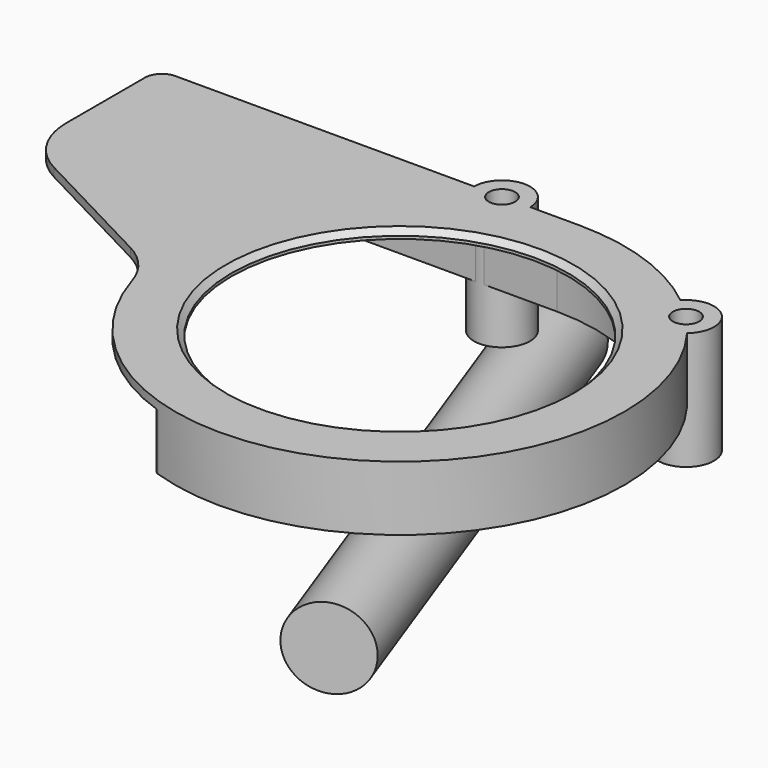
from build123d import *

# Parameters (mm, degrees)
SKETCH_R                 = 60
PAD_DEPTH                = 23
POCKET_DEPTH             = 20
SKETCH002_R              = 10
PAD001_DEPTH             = 42
SKETCH005_R              = 2.8
POCKET001_DEPTH          = 42.001
SKETCH006_R              = 4.7
POCKET002_DEPTH          = 6
FILLET_R                 = 26
CHAMFER_SIZE             = 2
FILLET001_R              = 6
FILLET002_R              = 3
CYLINDER_R               = 14.3
CYLINDER_DEPTH           = 200
CYLINDER_ROLL_ANGLE      = 90
CYLINDER_PITCH_ANGLE     = 19.983107
CYLINDER_PLACEMENT_ANGLE = 19.983107


with BuildPart() as body:
    # Sketch → Pad (new body)
    with BuildSketch(Plane.XY):
        with BuildLine():
            ThreePointArc((-78.765475, -14), (61.318839, -51.38093), (0, 80))
            Line((-150, 80), (0, 80))
            Line((-150, 80), (-150, 23.233627))
            Line((-150, 23.233627), (-78.765475, -14))
        make_face()
        Circle(SKETCH_R, mode=Mode.SUBTRACT)
    extrude(amount=PAD_DEPTH)

    # Sketch001 (on Face6 of Pad) → Pocket (cut)
    with BuildSketch(Plane(origin=(0, 0, 0), x_dir=(1, 0, 0), z_dir=(0, 0, -1))):
        with BuildLine():
            Line((-178.35, 70), (0, 70))
            ThreePointArc((0, -70), (70, 0), (0, 70))
            Line((-178.35, -70), (0, -70))
            Line((-178.35, 70), (-178.35, -70))
        make_face()
    extrude(amount=-POCKET_DEPTH, mode=Mode.SUBTRACT)

    # Sketch002 (on Face6 of Pocket) → Pad001 (join)
    with BuildSketch(Plane.XY.offset(23)):
        with Locations((57.547184, 55.57267)):
            Circle(SKETCH002_R)
        with Locations((-27.510509, 79.89632)):
            Circle(SKETCH002_R)
    extrude(amount=-PAD001_DEPTH)

    # Sketch005 (on Face5 of Pad001) → Pocket001 (cut, through all)
    with BuildSketch(Plane.XY.offset(23)):
        with Locations((-27.510509, 79.89632)):
            Circle(SKETCH005_R)
        with Locations((57.547184, 55.57267)):
            Circle(SKETCH005_R)
    extrude(amount=-POCKET001_DEPTH, mode=Mode.SUBTRACT)

    # Sketch006 (on Face15 of Pocket001) → Pocket002 (cut)
    with BuildSketch(Plane.XY.offset(23)):
        with Locations((-27.510509, 79.89632)):
            Circle(SKETCH006_R)
        with Locations((57.547184, 55.57267)):
            Circle(SKETCH006_R)
    extrude(amount=-POCKET002_DEPTH, mode=Mode.SUBTRACT)

    # Fillet
    fillet_edges = [body.edges().sort_by_distance(p)[0] for p in [
        (-150, 23.233627, 21.5),
        (-78.765475, -14, 21.5),
    ]]
    fillet(fillet_edges, radius=FILLET_R)

    # Chamfer
    chamfer_edges = [body.edges().sort_by_distance(p)[0] for p in [
        (-60, 0, 23),
    ]]
    chamfer(chamfer_edges, length=CHAMFER_SIZE)

    # Fillet001
    fillet001_edges = [body.edges().sort_by_distance(p)[0] for p in [
        (-150, 80, 11.5),
    ]]
    fillet(fillet001_edges, radius=FILLET001_R)

    # Fillet002
    fillet002_edges = [body.edges().sort_by_distance(p)[0] for p in [
        (-38.729833, -70, 10),
    ]]
    fillet(fillet002_edges, radius=FILLET002_R)


with BuildPart() as cylinder:
    # Cylinder → Cylinder (new body)
    with BuildSketch(Plane.XY):
        Circle(CYLINDER_R)
    extrude(amount=CYLINDER_DEPTH)


with BuildPart() as cylinder_1:
    # Cylinder roll: moved
    add(cylinder.part.rotate(Axis((0, 0, 0), (1, 0, 0)), CYLINDER_ROLL_ANGLE))


with BuildPart() as cylinder_2:
    # Cylinder pitch: moved
    add(cylinder_1.part.rotate(Axis((0, 0, 0), (0, 1, 0)), CYLINDER_PITCH_ANGLE))


with BuildPart() as cylinder_3:
    # Cylinder placement: moved
    add(cylinder_2.part.moved(Location((-44, 126, -44))).rotate(Axis((-44, 126, -44), (0, 0, 1)), CYLINDER_PLACEMENT_ANGLE))


solid = Compound([body.part, cylinder_3.part])
